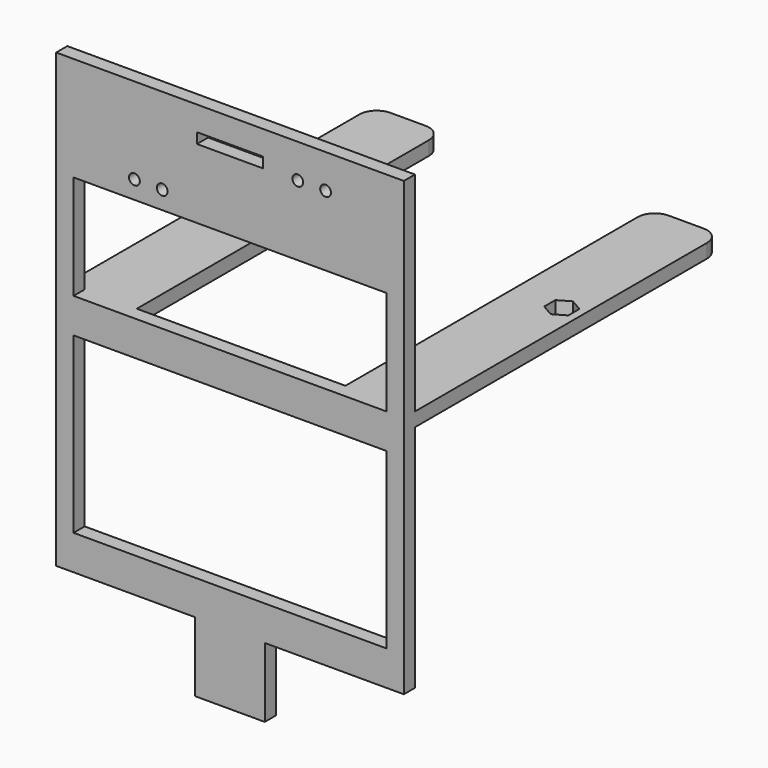
from build123d import *

# Parameters (mm, degrees)
F0_W     = 90
F0_H     = 50
F0_H_2   = 30
F0_R     = 1.55
F0_W_2   = 19
F0_H_3   = 3
F1_DEPTH = 4
F3_DEPTH = 4
F4_W     = 0.5
F4_H     = 20
F5_DEPTH = 0.5


with BuildPart() as f1:
    # F0 (on Front) → F1 (new body)
    with BuildSketch(Plane.XZ):
        Polygon((50.859297, 66.157015), (-49.140703, 66.157015), (-49.140703, -63.842985), (-9.140703, -63.842985), (-9.140703, -83.842985), (10.859297, -83.842985), (10.859297, -63.842985), (50.859297, -63.842985), align=None)
        with Locations((0.859297, -28.842985)):
            Rectangle(F0_W, F0_H, mode=Mode.SUBTRACT)
        with Locations((0.859297, 21.157015)):
            Rectangle(F0_W, F0_H_2, mode=Mode.SUBTRACT)
        with Locations((-26.640703, 41.357015)):
            Circle(F0_R, mode=Mode.SUBTRACT)
        with Locations((-18.640703, 41.357015)):
            Circle(F0_R, mode=Mode.SUBTRACT)
        with Locations((0.859297, 57.657015)):
            Rectangle(F0_W_2, F0_H_3, mode=Mode.SUBTRACT)
        with Locations((20.359297, 56.357015)):
            Circle(F0_R, mode=Mode.SUBTRACT)
        with Locations((28.359297, 56.357015)):
            Circle(F0_R, mode=Mode.SUBTRACT)
    extrude(amount=F1_DEPTH)

    # F2 (on face) → F3 (join)
    with BuildSketch(Plane.XY.offset(6.157015)):
        with BuildLine():
            Line((-49.140703, 105), (-49.140703, 0))
            Line((-49.140703, 0), (-29.140703, 0))
            Line((-29.140703, 0), (-29.140703, 105))
            ThreePointArc((-29.140703, 105), (-30.605169, 108.535534), (-34.140703, 110))
            Line((-34.140703, 110), (-44.140703, 110))
            ThreePointArc((-44.140703, 110), (-47.676237, 108.535534), (-49.140703, 105))
        make_face()
        Polygon((-46.854805, 62), (-43.390703, 64), (-39.926602, 62), (-39.926602, 58), (-43.390703, 56), (-46.854805, 58), align=None, mode=Mode.SUBTRACT)
        with BuildLine():
            Line((30.859297, 105), (30.859297, 0))
            Line((30.859297, 0), (50.859297, 0))
            Line((50.859297, 0), (50.859297, 105))
            ThreePointArc((50.859297, 105), (49.394831, 108.535534), (45.859297, 110))
            Line((45.859297, 110), (35.859297, 110))
            ThreePointArc((35.859297, 110), (32.323763, 108.535534), (30.859297, 105))
        make_face()
        Polygon((45.109297, 64), (48.573398, 62), (48.573398, 58), (45.109297, 56), (41.645195, 58), (41.645195, 62), align=None, mode=Mode.SUBTRACT)
    extrude(amount=-F3_DEPTH)

    # F4 (on face) → F5 (cut)
    with BuildSketch(Plane(origin=(0, 0, 0), x_dir=(-1, 0, 0), z_dir=(0, 1, 0))):
        with Locations((-0.859297, -73.842985)):
            Rectangle(F4_W, F4_H)
    extrude(amount=-F5_DEPTH, mode=Mode.SUBTRACT)


solid = f1.part
